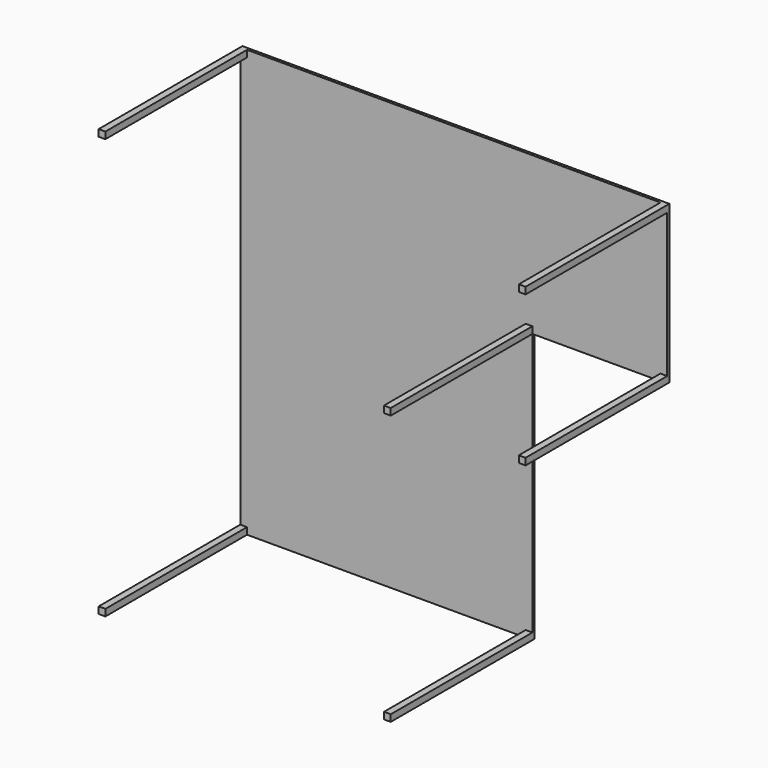
from build123d import *

# Parameters (mm, degrees)
F0_W     = 30
F0_H     = 30
F1_DEPTH = 800
F2_DEPTH = 12
F0_H_2   = 1170
F3_DEPTH = 12


with BuildPart() as f1:
    # F0 (on Front) → F1 (new body)
    with BuildSketch(Plane.XZ):
        with Locations((-935, 935)):
            Rectangle(F0_W, F0_H)
    extrude(amount=F1_DEPTH)



with BuildPart() as f1b:
    # F0 (on Front) → F1, piece 2 (new body)
    with BuildSketch(Plane.XZ):
        with Locations((935, 935)):
            Rectangle(F0_W, F0_H)
    extrude(amount=F1_DEPTH)


with BuildPart() as f1c:
    # F0 (on Front) → F1, piece 3 (new body)
    with BuildSketch(Plane.XZ):
        with Locations((935, 265)):
            Rectangle(F0_W, F0_H)
    extrude(amount=F1_DEPTH)


with BuildPart() as f1d:
    # F0 (on Front) → F1, piece 4 (new body)
    with BuildSketch(Plane.XZ):
        with Locations((335, 265)):
            Rectangle(F0_W, F0_H)
    extrude(amount=F1_DEPTH)


with BuildPart() as f1e:
    # F0 (on Front) → F1, piece 5 (new body)
    with BuildSketch(Plane.XZ):
        with Locations((335, -935)):
            Rectangle(F0_W, F0_H)
    extrude(amount=F1_DEPTH)


with BuildPart() as f1f:
    # F0 (on Front) → F1, piece 6 (new body)
    with BuildSketch(Plane.XZ):
        with Locations((-935, -935)):
            Rectangle(F0_W, F0_H)
    extrude(amount=F1_DEPTH)


with BuildPart() as f1_1:
    add(f1.part)

    add(f1b.part)  # F2 merges F1b

    add(f1c.part)  # F2 merges F1c

    add(f1d.part)  # F2 merges F1d

    add(f1e.part)  # F2 merges F1e

    add(f1f.part)  # F2 merges F1f
    # F0 (on Front) → F2 (join)
    with BuildSketch(Plane.XZ):
        Polygon((-920, -920), (-920, -950), (320, -950), (320, -920), (320, 250), (320, 280), (350, 280), (350, 250), (920, 250), (920, 280), (950, 280), (950, 920), (920, 920), (920, 950), (-920, 950), (-920, 920), (-950, 920), (-950, -920), align=None)
    extrude(amount=F2_DEPTH)

    # F0 (on Front) → F3 (join)
    with BuildSketch(Plane.XZ):
        Polygon((-920, -920), (-920, -950), (320, -950), (320, -920), (320, 250), (320, 280), (350, 280), (350, 250), (920, 250), (920, 280), (950, 280), (950, 920), (920, 920), (920, 950), (-920, 950), (-920, 920), (-950, 920), (-950, -920), align=None)
        with Locations((335, -335)):
            Rectangle(F0_W, F0_H_2)
        with Locations((335, -935)):
            Rectangle(F0_W, F0_H)
        with Locations((335, 265)):
            Rectangle(F0_W, F0_H)
        with Locations((935, 265)):
            Rectangle(F0_W, F0_H)
        with Locations((-935, -935)):
            Rectangle(F0_W, F0_H)
        with Locations((935, 935)):
            Rectangle(F0_W, F0_H)
        with Locations((-935, 935)):
            Rectangle(F0_W, F0_H)
    extrude(amount=F3_DEPTH)


solid = f1_1.part
